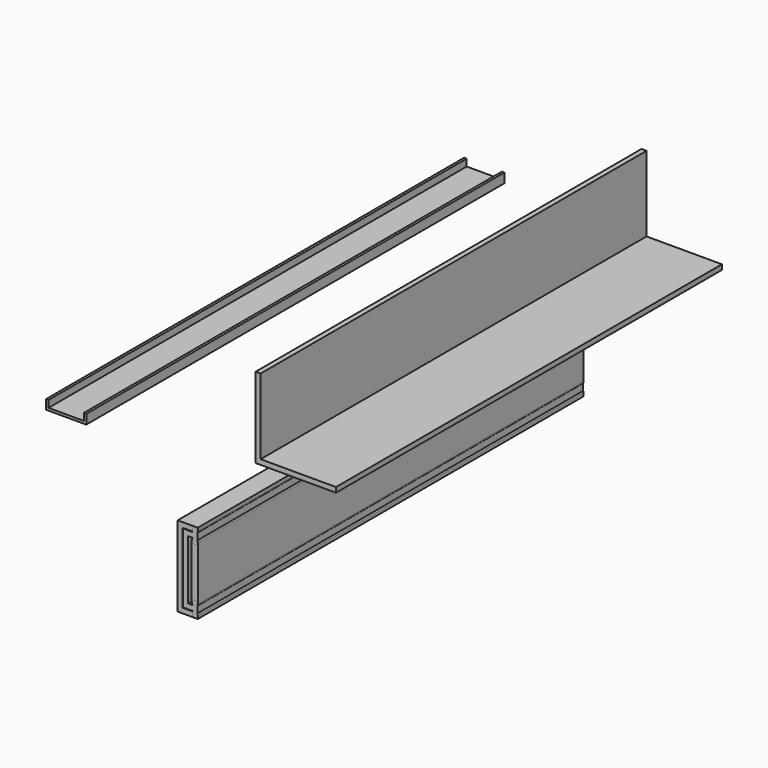
from build123d import *

# Parameters (mm, degrees)
F0_W     = 22.225
F0_H     = 3.175
F0_W_2   = 9.525
F1_DEPTH = 66.675
F3_DEPTH = 330.2
F5_DEPTH = 304.8
F6_W     = 3.175
F6_H     = 18.7325
F7_DEPTH = 304.8
F8_DEPTH = 304.8
F9_DEPTH = 304.8


with BuildPart() as f1:
    # F0 (on Front) → F1 (new body)
    with BuildSketch(Plane.XZ):
        with Locations((0, 3.175)):
            Rectangle(F0_W, F0_H)
        Rectangle(F0_W, F0_H)
        with Locations((-15.875, 0)):
            Rectangle(F0_W_2, F0_H)
        with Locations((15.875, 0)):
            Rectangle(F0_W_2, F0_H)
    extrude(amount=F1_DEPTH)


with BuildPart() as f3:
    # F2 (on Front) → F3 (new body)
    with BuildSketch(Plane.XZ):
        Polygon((-78.0108283877, 35.7766685789), (-52.6108283877, 35.7766685789), (-52.6108283877, 41.7715603303), (-54.1983283877, 41.7715603303), (-54.1983283877, 37.3641685789), (-76.4233283877, 37.3641685789), (-76.4233283877, 41.7715603303), (-78.0108283877, 41.7715603303), align=None)
    extrude(amount=F3_DEPTH)


with BuildPart() as f5:
    # F4 (on Front) → F5 (new body)
    with BuildSketch(Plane.XZ):
        Polygon((34.0249207026, 83.0667410355), (34.0249207026, 32.2667410355), (84.8249207026, 32.2667410355), (84.8249207026, 35.4417410355), (37.1999207026, 35.4417410355), (37.1999207026, 83.0667410355), align=None)
    extrude(amount=F5_DEPTH)


with BuildPart() as f7:
    # F6 (on Front) → F7 (new body)
    with BuildSketch(Plane.XZ):
        with Locations((-10.112649684, -31.6202576473)):
            Rectangle(F6_W, F6_H)
        Polygon((-5.450678055, -22.2540076473), (-5.450678055, -19.0790076473), (-11.700149684, -19.0790076473), (-11.700149684, -22.2540076473), (-8.525149684, -22.2540076473), align=None)
        with BuildLine():
            Line((-2.810149684, -22.7884792763), (-2.810149684, -18.5445360182))
            ThreePointArc((-2.810149684, -18.5445360182), (-4.0197211708, -19.3586431643), (-5.450678055, -19.0790076473))
            Line((-5.450678055, -19.0790076473), (-5.450678055, -22.2540076473))
            ThreePointArc((-5.450678055, -22.2540076473), (-4.0197211708, -21.9743721303), (-2.810149684, -22.7884792763))
        make_face()
        with BuildLine():
            Line((-2.810149684, -18.5445360182), (-2.810149684, -17.4915076473))
            ThreePointArc((-2.810149684, -17.4915076473), (-3.7463150116, -18.9392366946), (-5.450678055, -18.6794838676))
            Line((-5.450678055, -18.6794838676), (-5.450678055, -19.0790076473))
            ThreePointArc((-5.450678055, -19.0790076473), (-4.0197211708, -19.3586431643), (-2.810149684, -18.5445360182))
        make_face()
        with BuildLine():
            ThreePointArc((-5.450678055, -18.6794838676), (-3.7463150116, -18.9392366946), (-2.810149684, -17.4915076473))
            Line((-2.810149684, -17.4915076473), (-5.450678055, -17.4915076473))
            Line((-5.450678055, -17.4915076473), (-5.450678055, -18.6794838676))
        make_face()
        with BuildLine():
            Line((-5.450678055, -17.4915076473), (-2.810149684, -17.4915076473))
            ThreePointArc((-2.810149684, -17.4915076473), (-5.0489843565, -16.0437786), (-5.450678055, -18.6794838676))
            Line((-5.450678055, -18.6794838676), (-5.450678055, -17.4915076473))
        make_face()
        with BuildLine():
            Line((-2.810149684, -23.8415076473), (-2.810149684, -22.7884792763))
            ThreePointArc((-2.810149684, -22.7884792763), (-4.0197211708, -21.9743721303), (-5.450678055, -22.2540076473))
            Line((-5.450678055, -22.2540076473), (-5.450678055, -22.653531427))
            ThreePointArc((-5.450678055, -22.653531427), (-3.7463150116, -22.3937786), (-2.810149684, -23.8415076473))
        make_face()
        with BuildLine():
            Line((-5.450678055, -23.8415076473), (-2.810149684, -23.8415076473))
            ThreePointArc((-2.810149684, -23.8415076473), (-3.7463150116, -22.3937786), (-5.450678055, -22.653531427))
            Line((-5.450678055, -22.653531427), (-5.450678055, -23.8415076473))
        make_face()
        with BuildLine():
            ThreePointArc((-5.450678055, -22.653531427), (-5.0489843565, -25.2892366946), (-2.810149684, -23.8415076473))
            Line((-2.810149684, -23.8415076473), (-5.450678055, -23.8415076473))
            Line((-5.450678055, -23.8415076473), (-5.450678055, -22.653531427))
        make_face()
        with Locations((-10.112649684, -50.3527576473)):
            Rectangle(F6_W, F6_H)
        Polygon((-8.525149684, -59.7190076473), (-11.700149684, -59.7190076473), (-11.700149684, -62.8940076473), (-5.450678055, -62.8940076473), (-5.450678055, -59.7190076473), align=None)
        with BuildLine():
            Line((-2.810149684, -63.4284792763), (-2.810149684, -59.1845360182))
            ThreePointArc((-2.810149684, -59.1845360182), (-4.0197211708, -59.9986431643), (-5.450678055, -59.7190076473))
            Line((-5.450678055, -59.7190076473), (-5.450678055, -62.8940076473))
            ThreePointArc((-5.450678055, -62.8940076473), (-4.0197211708, -62.6143721303), (-2.810149684, -63.4284792763))
        make_face()
        with BuildLine():
            ThreePointArc((-5.450678055, -59.7190076473), (-4.0197211708, -59.9986431643), (-2.810149684, -59.1845360182))
            Line((-2.810149684, -59.1845360182), (-2.810149684, -58.1315076473))
            ThreePointArc((-2.810149684, -58.1315076473), (-3.7463150116, -59.5792366946), (-5.450678055, -59.3194838676))
            Line((-5.450678055, -59.3194838676), (-5.450678055, -59.7190076473))
        make_face()
        with BuildLine():
            ThreePointArc((-5.450678055, -59.3194838676), (-3.7463150116, -59.5792366946), (-2.810149684, -58.1315076473))
            Line((-2.810149684, -58.1315076473), (-5.450678055, -58.1315076473))
            Line((-5.450678055, -58.1315076473), (-5.450678055, -59.3194838676))
        make_face()
        with BuildLine():
            Line((-5.450678055, -58.1315076473), (-2.810149684, -58.1315076473))
            ThreePointArc((-2.810149684, -58.1315076473), (-5.0489843565, -56.6837786), (-5.450678055, -59.3194838676))
            Line((-5.450678055, -59.3194838676), (-5.450678055, -58.1315076473))
        make_face()
        with BuildLine():
            Line((-5.450678055, -64.4815076473), (-2.810149684, -64.4815076473))
            ThreePointArc((-2.810149684, -64.4815076473), (-3.7463150116, -63.0337786), (-5.450678055, -63.293531427))
            Line((-5.450678055, -63.293531427), (-5.450678055, -64.4815076473))
        make_face()
        with BuildLine():
            Line((-2.810149684, -64.4815076473), (-2.810149684, -63.4284792763))
            ThreePointArc((-2.810149684, -63.4284792763), (-4.0197211708, -62.6143721303), (-5.450678055, -62.8940076473))
            Line((-5.450678055, -62.8940076473), (-5.450678055, -63.293531427))
            ThreePointArc((-5.450678055, -63.293531427), (-3.7463150116, -63.0337786), (-2.810149684, -64.4815076473))
        make_face()
        with BuildLine():
            ThreePointArc((-5.450678055, -63.293531427), (-5.0489843565, -65.9292366946), (-2.810149684, -64.4815076473))
            Line((-2.810149684, -64.4815076473), (-5.450678055, -64.4815076473))
            Line((-5.450678055, -64.4815076473), (-5.450678055, -63.293531427))
        make_face()
    extrude(amount=F7_DEPTH)


with BuildPart() as f8:
    # F6 (on Front) → F8 (new body)
    with BuildSketch(Plane.XZ):
        with BuildLine():
            Line((-12.017649684, -18.7615076473), (-5.8175528498, -18.7615076473))
            ThreePointArc((-5.8175528498, -18.7615076473), (-6.1366688041, -16.7137946539), (-4.397649684, -15.5865076473))
            Line((-4.397649684, -15.5865076473), (-15.192649684, -15.5865076473))
            Line((-15.192649684, -15.5865076473), (-15.192649684, -18.7615076473))
            Line((-15.192649684, -18.7615076473), (-12.017649684, -18.7615076473))
        make_face()
        with BuildLine():
            ThreePointArc((-5.450678055, -18.6794838676), (-5.0489843565, -16.0437786), (-2.810149684, -17.4915076473))
            Line((-2.810149684, -17.4915076473), (-2.810149684, -18.5445360182))
            ThreePointArc((-2.810149684, -18.5445360182), (-2.5737510438, -18.0414337787), (-2.492649684, -17.4915076473))
            ThreePointArc((-2.492649684, -17.4915076473), (-3.0506112659, -16.1444692291), (-4.397649684, -15.5865076473))
            ThreePointArc((-4.397649684, -15.5865076473), (-6.1366688041, -16.7137946539), (-5.8175528498, -18.7615076473))
            ThreePointArc((-5.8175528498, -18.7615076473), (-5.6442647645, -18.9319852907), (-5.450678055, -19.0790076473))
            Line((-5.450678055, -19.0790076473), (-5.450678055, -18.6794838676))
        make_face()
        with BuildLine():
            ThreePointArc((-4.397649684, -15.5865076473), (-3.0506112659, -16.1444692291), (-2.492649684, -17.4915076473))
            Line((-2.492649684, -17.4915076473), (-2.492649684, -15.5865076473))
            Line((-2.492649684, -15.5865076473), (-4.397649684, -15.5865076473))
        make_face()
        Polygon((-12.017649684, -19.0790076473), (-12.017649684, -18.7615076473), (-15.192649684, -18.7615076473), (-15.192649684, -40.9865076473), (-12.017649684, -40.9865076473), align=None)
        Polygon((-12.017649684, -62.8940076473), (-12.017649684, -40.9865076473), (-15.192649684, -40.9865076473), (-15.192649684, -63.2115076473), (-12.017649684, -63.2115076473), align=None)
        with BuildLine():
            Line((-12.017649684, -63.2115076473), (-15.192649684, -63.2115076473))
            Line((-15.192649684, -63.2115076473), (-15.192649684, -66.3865076473))
            Line((-15.192649684, -66.3865076473), (-4.397649684, -66.3865076473))
            ThreePointArc((-4.397649684, -66.3865076473), (-6.1366688041, -65.2592206406), (-5.8175528498, -63.2115076473))
            Line((-5.8175528498, -63.2115076473), (-12.017649684, -63.2115076473))
        make_face()
        with BuildLine():
            Line((-2.492649684, -66.3865076473), (-2.492649684, -64.4815076473))
            ThreePointArc((-2.492649684, -64.4815076473), (-3.0506112659, -65.8285460654), (-4.397649684, -66.3865076473))
            Line((-4.397649684, -66.3865076473), (-2.492649684, -66.3865076473))
        make_face()
        with BuildLine():
            ThreePointArc((-4.397649684, -66.3865076473), (-3.0506112659, -65.8285460654), (-2.492649684, -64.4815076473))
            ThreePointArc((-2.492649684, -64.4815076473), (-2.5737510438, -63.9315815159), (-2.810149684, -63.4284792763))
            Line((-2.810149684, -63.4284792763), (-2.810149684, -64.4815076473))
            ThreePointArc((-2.810149684, -64.4815076473), (-5.0489843565, -65.9292366946), (-5.450678055, -63.293531427))
            Line((-5.450678055, -63.293531427), (-5.450678055, -62.8940076473))
            ThreePointArc((-5.450678055, -62.8940076473), (-5.6442647645, -63.0410300038), (-5.8175528498, -63.2115076473))
            ThreePointArc((-5.8175528498, -63.2115076473), (-6.1366688041, -65.2592206406), (-4.397649684, -66.3865076473))
        make_face()
    extrude(amount=F8_DEPTH)


with BuildPart() as f9:
    # F6 (on Front) → F9 (new body)
    with BuildSketch(Plane.XZ):
        with BuildLine():
            Line((-2.492649684, -40.9865076473), (-2.492649684, -23.8415076473))
            ThreePointArc((-2.492649684, -23.8415076473), (-4.397649684, -25.7465076473), (-6.302649684, -23.8415076473))
            Line((-6.302649684, -23.8415076473), (-6.302649684, -40.9865076473))
            Line((-6.302649684, -40.9865076473), (-2.492649684, -40.9865076473))
        make_face()
        with BuildLine():
            ThreePointArc((-2.492649684, -23.8415076473), (-2.5737510438, -23.2915815159), (-2.810149684, -22.7884792763))
            Line((-2.810149684, -22.7884792763), (-2.810149684, -23.8415076473))
            ThreePointArc((-2.810149684, -23.8415076473), (-5.0489843565, -25.2892366946), (-5.450678055, -22.653531427))
            Line((-5.450678055, -22.653531427), (-5.450678055, -22.2540076473))
            ThreePointArc((-5.450678055, -22.2540076473), (-6.0761972774, -22.9406730472), (-6.302649684, -23.8415076473))
            ThreePointArc((-6.302649684, -23.8415076473), (-4.397649684, -25.7465076473), (-2.492649684, -23.8415076473))
        make_face()
        with BuildLine():
            Line((-2.492649684, -58.1315076473), (-2.492649684, -40.9865076473))
            Line((-2.492649684, -40.9865076473), (-6.302649684, -40.9865076473))
            Line((-6.302649684, -40.9865076473), (-6.302649684, -58.1315076473))
            ThreePointArc((-6.302649684, -58.1315076473), (-4.397649684, -56.2265076473), (-2.492649684, -58.1315076473))
        make_face()
        with BuildLine():
            ThreePointArc((-2.810149684, -59.1845360182), (-2.5737510438, -58.6814337787), (-2.492649684, -58.1315076473))
            ThreePointArc((-2.492649684, -58.1315076473), (-4.397649684, -56.2265076473), (-6.302649684, -58.1315076473))
            ThreePointArc((-6.302649684, -58.1315076473), (-6.0761972774, -59.0323422474), (-5.450678055, -59.7190076473))
            Line((-5.450678055, -59.7190076473), (-5.450678055, -59.3194838676))
            ThreePointArc((-5.450678055, -59.3194838676), (-5.0489843565, -56.6837786), (-2.810149684, -58.1315076473))
            Line((-2.810149684, -58.1315076473), (-2.810149684, -59.1845360182))
        make_face()
    extrude(amount=F9_DEPTH)


solid = Compound([f1.part, f3.part, f5.part, f7.part, f8.part, f9.part])
